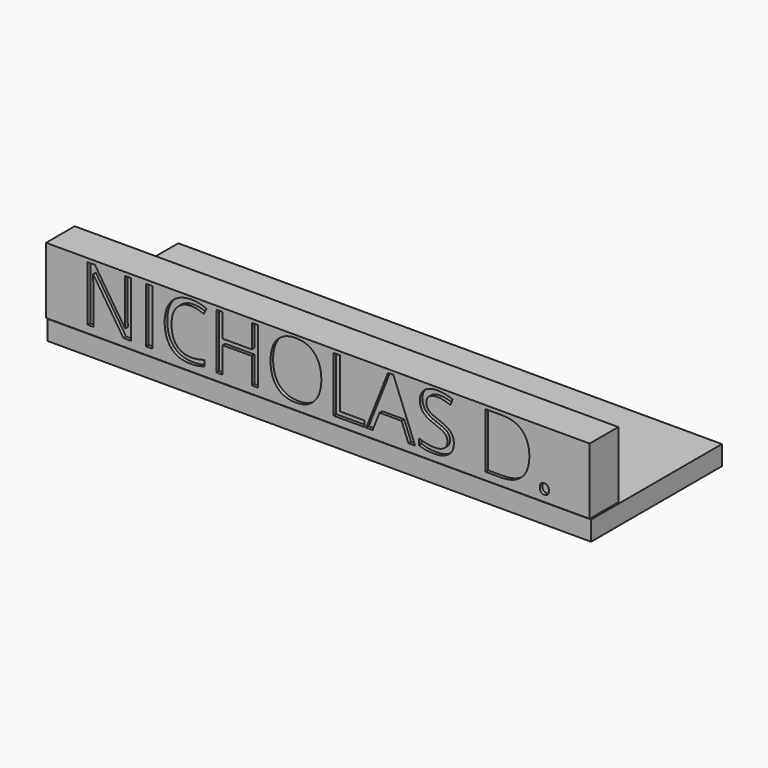
from build123d import *

# Parameters (mm, degrees)
F0_W          = 127.3102520967
F0_H          = 38.3089445531
F1_DEPTH      = 3.556
F1_DEPTH_BACK = 1.016
F3_START      = 11.176
F2_W          = 127.299875021
F2_H          = 15.5115001058
F3_DEPTH      = 7.62
F4_W          = 127.299875021
F4_H          = 15.5115001058
F4_W_2        = 1.5028035596
F4_H_2        = 12.9309029447
F5_DEPTH      = 0.762


with BuildPart() as f1:
    # F0 (on Top) → F1 (new body, two sides)
    with BuildSketch(Plane.XY) as f1_sk:
        Rectangle(F0_W, F0_H)
    extrude(amount=F1_DEPTH)
    extrude(f1_sk.sketch, amount=-F1_DEPTH_BACK)


with BuildPart() as f3:
    # F2 (on Front) → F3 (new body)
    with BuildSketch(Plane.XZ.offset(F3_START)):
        with Locations((0, 11.6400046773)):
            Rectangle(F2_W, F2_H)
    extrude(amount=F3_DEPTH)

    # F4 (on face) → F5 (join)
    with BuildSketch(Plane.XZ.offset(18.796)):
        with Locations((0, 11.6400046773)):
            Rectangle(F4_W, F4_H)
        with BuildLine():
            add(Edge.make_bspline(
                [(52.2700975398, 5.6606976183), (51.9743480634, 5.9394662635), (51.9743480634, 6.5762474329)],
                knots=[0, 0, 0, 1, 1, 1], degree=2))
            add(Edge.make_bspline(
                [(51.9743480634, 6.5762474329), (51.9743480634, 7.1705765242), (52.244626293, 7.4748164162)],
                knots=[0, 0, 0, 1, 1, 1], degree=2))
            add(Edge.make_bspline(
                [(52.244626293, 7.4748164162), (52.5149045227, 7.7790563082), (53.0186691811, 7.7790563082)],
                knots=[0, 0, 0, 1, 1, 1], degree=2))
            add(Edge.make_bspline(
                [(53.0186691811, 7.7790563082), (53.530924255, 7.7790563082), (53.8181833158, 7.4748164162)],
                knots=[0, 0, 0, 1, 1, 1], degree=2))
            add(Edge.make_bspline(
                [(53.8181833158, 7.4748164162), (54.1054423767, 7.1705765242), (54.1054423767, 6.5762474329)],
                knots=[0, 0, 0, 1, 1, 1], degree=2))
            add(Edge.make_bspline(
                [(54.1054423767, 6.5762474329), (54.1054423767, 6.0017293112), (53.8139381081, 5.6918291422)],
                knots=[0, 0, 0, 1, 1, 1], degree=2))
            add(Edge.make_bspline(
                [(53.8139381081, 5.6918291422), (53.5224338394, 5.3819289731), (53.0186691811, 5.3819289731)],
                knots=[0, 0, 0, 1, 1, 1], degree=2))
            add(Edge.make_bspline(
                [(53.0186691811, 5.3819289731), (52.5658470162, 5.3819289731), (52.2700975398, 5.6606976183)],
                knots=[0, 0, 0, 1, 1, 1], degree=2))
        make_face(mode=Mode.SUBTRACT)
        with BuildLine():
            Line((-43.8116904928, 18.570374524), (-43.8116904928, 5.6394715793))
            Line((-43.8116904928, 5.6394715793), (-45.5267544421, 5.6394715793))
            Line((-45.5267544421, 5.6394715793), (-52.5936103521, 16.4902227043))
            Line((-52.5936103521, 16.4902227043), (-52.6643638154, 16.4902227043))
            add(Edge.make_bspline(
                [(-52.6643638154, 16.4902227043), (-52.5228568889, 14.5798791964), (-52.5228568889, 12.9893413424)],
                knots=[0, 0, 0, 1, 1, 1], degree=2))
            Line((-52.5228568889, 12.9893413424), (-52.5228568889, 5.6394715793))
            Line((-52.5228568889, 5.6394715793), (-53.9124549072, 5.6394715793))
            Line((-53.9124549072, 5.6394715793), (-53.9124549072, 18.570374524))
            Line((-53.9124549072, 18.570374524), (-52.2143717891, 18.570374524))
            Line((-52.2143717891, 18.570374524), (-45.1644967102, 7.762075477))
            Line((-45.1644967102, 7.762075477), (-45.093743247, 7.762075477))
            add(Edge.make_bspline(
                [(-45.093743247, 7.762075477), (-45.1107240782, 7.9998071136), (-45.1729871258, 9.2960105604)],
                knots=[0, 0, 0, 1, 1, 1], degree=2))
            add(Edge.make_bspline(
                [(-45.1729871258, 9.2960105604), (-45.2352501735, 10.5922140073), (-45.2182693423, 11.1497512977)],
                knots=[0, 0, 0, 1, 1, 1], degree=2))
            Line((-45.2182693423, 11.1497512977), (-45.2182693423, 18.570374524))
            Line((-45.2182693423, 18.570374524), (-43.8116904928, 18.570374524))
        make_face(mode=Mode.SUBTRACT)
        with Locations((-39.505634719, 12.1049230517)):
            Rectangle(F4_W_2, F4_H_2, mode=Mode.SUBTRACT)
        with BuildLine():
            add(Edge.make_bspline(
                [(-26.7346346013, 16.7222940638), (-28.2034764985, 17.4100177266), (-29.6723183957, 17.4100177266)],
                knots=[0, 0, 0, 1, 1, 1], degree=2))
            add(Edge.make_bspline(
                [(-29.6723183957, 17.4100177266), (-31.8034127089, 17.4100177266), (-33.0373531081, 15.9907032537)],
                knots=[0, 0, 0, 1, 1, 1], degree=2))
            add(Edge.make_bspline(
                [(-33.0373531081, 15.9907032537), (-34.2712935073, 14.5713887808), (-34.2712935073, 12.1035079824)],
                knots=[0, 0, 0, 1, 1, 1], degree=2))
            add(Edge.make_bspline(
                [(-34.2712935073, 12.1035079824), (-34.2712935073, 9.5677038593), (-33.0812202554, 8.1823510488)],
                knots=[0, 0, 0, 1, 1, 1], degree=2))
            add(Edge.make_bspline(
                [(-33.0812202554, 8.1823510488), (-31.8911470034, 6.7969982382), (-29.6892992269, 6.7969982382)],
                knots=[0, 0, 0, 1, 1, 1], degree=2))
            add(Edge.make_bspline(
                [(-29.6892992269, 6.7969982382), (-28.3364930094, 6.7969982382), (-26.6016180904, 7.2837820654)],
                knots=[0, 0, 0, 1, 1, 1], degree=2))
            Line((-26.6016180904, 7.2837820654), (-26.6016180904, 5.9677676489))
            add(Edge.make_bspline(
                [(-26.6016180904, 5.9677676489), (-27.9459338922, 5.4611728519), (-29.9185404478, 5.4611728519)],
                knots=[0, 0, 0, 1, 1, 1], degree=2))
            add(Edge.make_bspline(
                [(-29.9185404478, 5.4611728519), (-32.7741502248, 5.4611728519), (-34.3264812087, 7.196047771)],
                knots=[0, 0, 0, 1, 1, 1], degree=2))
            add(Edge.make_bspline(
                [(-34.3264812087, 7.196047771), (-35.8788121925, 8.93092269), (-35.8788121925, 12.1233189521)],
                knots=[0, 0, 0, 1, 1, 1], degree=2))
            add(Edge.make_bspline(
                [(-35.8788121925, 12.1233189521), (-35.8788121925, 14.1213967545), (-35.1316556205, 15.6242003141)],
                knots=[0, 0, 0, 1, 1, 1], degree=2))
            add(Edge.make_bspline(
                [(-35.1316556205, 15.6242003141), (-34.3844990485, 17.1270038736), (-32.9736749912, 17.9406687011)],
                knots=[0, 0, 0, 1, 1, 1], degree=2))
            add(Edge.make_bspline(
                [(-32.9736749912, 17.9406687011), (-31.5628509339, 18.7543335285), (-29.652507426, 18.7543335285)],
                knots=[0, 0, 0, 1, 1, 1], degree=2))
            add(Edge.make_bspline(
                [(-29.652507426, 18.7543335285), (-27.6204679612, 18.7543335285), (-26.097853432, 18.0128372336)],
                knots=[0, 0, 0, 1, 1, 1], degree=2))
            Line((-26.097853432, 18.0128372336), (-26.7346346013, 16.7222940638))
        make_face(mode=Mode.SUBTRACT)
        Polygon((-13.9622194143, 18.570374524), (-13.9622194143, 5.6394715793), (-15.4650229738, 5.6394715793), (-15.4650229738, 11.7242694194), (-22.2771664161, 11.7242694194), (-22.2771664161, 5.6394715793), (-23.7799699757, 5.6394715793), (-23.7799699757, 18.570374524), (-22.2771664161, 18.570374524), (-22.2771664161, 13.0685852212), (-15.4650229738, 13.0685852212), (-15.4650229738, 18.570374524), align=None, mode=Mode.SUBTRACT)
        with BuildLine():
            add(Edge.make_bspline(
                [(-0.7567930321, 17.0053079168), (0.8082735751, 15.2364713354), (0.8082735751, 12.1233189521)],
                knots=[0, 0, 0, 1, 1, 1], degree=2))
            add(Edge.make_bspline(
                [(0.8082735751, 12.1233189521), (0.8082735751, 9.0186569845), (-0.7624533092, 7.2399149182)],
                knots=[0, 0, 0, 1, 1, 1], degree=2))
            add(Edge.make_bspline(
                [(-0.7624533092, 7.2399149182), (-2.3331801935, 5.4611728519), (-5.1265269228, 5.4611728519)],
                knots=[0, 0, 0, 1, 1, 1], degree=2))
            add(Edge.make_bspline(
                [(-5.1265269228, 5.4611728519), (-7.9821366999, 5.4611728519), (-9.5344676837, 7.2087833944)],
                knots=[0, 0, 0, 1, 1, 1], degree=2))
            add(Edge.make_bspline(
                [(-9.5344676837, 7.2087833944), (-11.0867986675, 8.9563939368), (-11.0867986675, 12.1402997833)],
                knots=[0, 0, 0, 1, 1, 1], degree=2))
            add(Edge.make_bspline(
                [(-11.0867986675, 12.1402997833), (-11.0867986675, 15.2987343831), (-9.5302224759, 17.0364394406)],
                knots=[0, 0, 0, 1, 1, 1], degree=2))
            add(Edge.make_bspline(
                [(-9.5302224759, 17.0364394406), (-7.9736462843, 18.7741444982), (-5.1095460917, 18.7741444982)],
                knots=[0, 0, 0, 1, 1, 1], degree=2))
            add(Edge.make_bspline(
                [(-5.1095460917, 18.7741444982), (-2.3218596394, 18.7741444982), (-0.7567930321, 17.0053079168)],
                knots=[0, 0, 0, 1, 1, 1], degree=2))
        make_face(mode=Mode.SUBTRACT)
        Polygon((10.8977174354, 5.6394715793), (3.6893545989, 5.6394715793), (3.6893545989, 18.570374524), (5.1921581584, 18.570374524), (5.1921581584, 7.0007682124), (10.8977174354, 7.0007682124), align=None, mode=Mode.SUBTRACT)
        Polygon((22.7758088468, 5.6394715793), (21.2192326552, 5.6394715793), (19.6088838315, 9.7516628638), (14.4269001826, 9.7516628638), (12.8363623286, 5.6394715793), (11.3137477994, 5.6394715793), (16.424977985, 18.6241471561), (17.690049908, 18.6241471561), align=None, mode=Mode.SUBTRACT)
        with BuildLine():
            add(Edge.make_bspline(
                [(31.0850955716, 11.2374855922), (31.8492329748, 10.4054248643), (31.8492329748, 9.0809200321)],
                knots=[0, 0, 0, 1, 1, 1], degree=2))
            add(Edge.make_bspline(
                [(31.8492329748, 9.0809200321), (31.8492329748, 7.3743464984), (30.6110473678, 6.4177596752)],
                knots=[0, 0, 0, 1, 1, 1], degree=2))
            add(Edge.make_bspline(
                [(30.6110473678, 6.4177596752), (29.3728617608, 5.4611728519), (27.2502578632, 5.4611728519)],
                knots=[0, 0, 0, 1, 1, 1], degree=2))
            add(Edge.make_bspline(
                [(27.2502578632, 5.4611728519), (24.9521853766, 5.4611728519), (23.7125847004, 6.0555019433)],
                knots=[0, 0, 0, 1, 1, 1], degree=2))
            Line((23.7125847004, 6.0555019433), (23.7125847004, 7.5045328708))
            add(Edge.make_bspline(
                [(23.7125847004, 7.5045328708), (24.5106837659, 7.1705765242), (25.4474596194, 6.9752969656)],
                knots=[0, 0, 0, 1, 1, 1], degree=2))
            add(Edge.make_bspline(
                [(25.4474596194, 6.9752969656), (26.3842354729, 6.780017407), (27.3040304952, 6.780017407)],
                knots=[0, 0, 0, 1, 1, 1], degree=2))
            add(Edge.make_bspline(
                [(27.3040304952, 6.780017407), (28.8068340548, 6.780017407), (29.5681413194, 7.3502903209)],
                knots=[0, 0, 0, 1, 1, 1], degree=2))
            add(Edge.make_bspline(
                [(29.5681413194, 7.3502903209), (30.3294485841, 7.9205632347), (30.3294485841, 8.9394131056)],
                knots=[0, 0, 0, 1, 1, 1], degree=2))
            add(Edge.make_bspline(
                [(30.3294485841, 8.9394131056), (30.3294485841, 9.6101559373), (30.0591703544, 10.0389219246)],
                knots=[0, 0, 0, 1, 1, 1], degree=2))
            add(Edge.make_bspline(
                [(30.0591703544, 10.0389219246), (29.7888921248, 10.4676879119), (29.1563561633, 10.8313607131)],
                knots=[0, 0, 0, 1, 1, 1], degree=2))
            add(Edge.make_bspline(
                [(29.1563561633, 10.8313607131), (28.5238202018, 11.1950335142), (27.233277032, 11.6535159561)],
                knots=[0, 0, 0, 1, 1, 1], degree=2))
            add(Edge.make_bspline(
                [(27.233277032, 11.6535159561), (25.4304787882, 12.298787541), (24.6564359002, 13.1832058317)],
                knots=[0, 0, 0, 1, 1, 1], degree=2))
            add(Edge.make_bspline(
                [(24.6564359002, 13.1832058317), (23.8823930122, 14.0676241224), (23.8823930122, 15.4911838031)],
                knots=[0, 0, 0, 1, 1, 1], degree=2))
            add(Edge.make_bspline(
                [(23.8823930122, 15.4911838031), (23.8823930122, 16.9854969471), (25.0045429394, 17.8699152378)],
                knots=[0, 0, 0, 1, 1, 1], degree=2))
            add(Edge.make_bspline(
                [(25.0045429394, 17.8699152378), (26.1266928667, 18.7543335285), (27.9776034654, 18.7543335285)],
                knots=[0, 0, 0, 1, 1, 1], degree=2))
            add(Edge.make_bspline(
                [(27.9776034654, 18.7543335285), (29.9049278045, 18.7543335285), (31.5237670438, 18.0467988959)],
                knots=[0, 0, 0, 1, 1, 1], degree=2))
            Line((31.5237670438, 18.0467988959), (31.0539640478, 16.739274895))
            add(Edge.make_bspline(
                [(31.0539640478, 16.739274895), (29.4521056397, 17.4100177266), (27.9408116645, 17.4100177266)],
                knots=[0, 0, 0, 1, 1, 1], degree=2))
            add(Edge.make_bspline(
                [(27.9408116645, 17.4100177266), (26.7464932048, 17.4100177266), (26.0743353038, 16.8977626527)],
                knots=[0, 0, 0, 1, 1, 1], degree=2))
            add(Edge.make_bspline(
                [(26.0743353038, 16.8977626527), (25.4021774029, 16.3855075787), (25.4021774029, 15.4742029719)],
                knots=[0, 0, 0, 1, 1, 1], degree=2))
            add(Edge.make_bspline(
                [(25.4021774029, 15.4742029719), (25.4021774029, 14.8034601403), (25.6498145243, 14.3732790837)],
                knots=[0, 0, 0, 1, 1, 1], degree=2))
            add(Edge.make_bspline(
                [(25.6498145243, 14.3732790837), (25.8974516457, 13.9430980271), (26.48612046, 13.585085503)],
                knots=[0, 0, 0, 1, 1, 1], degree=2))
            add(Edge.make_bspline(
                [(26.48612046, 13.585085503), (27.0747892743, 13.2270729789), (28.2860885652, 12.7940617838)],
                knots=[0, 0, 0, 1, 1, 1], degree=2))
            add(Edge.make_bspline(
                [(28.2860885652, 12.7940617838), (30.3209581685, 12.0695463201), (31.0850955716, 11.2374855922)],
                knots=[0, 0, 0, 1, 1, 1], degree=2))
        make_face(mode=Mode.SUBTRACT)
        with BuildLine():
            add(Edge.make_bspline(
                [(47.8522512941, 16.8991777219), (49.5234480962, 15.2279809198), (49.5234480962, 12.2280340778)],
                knots=[0, 0, 0, 1, 1, 1], degree=2))
            add(Edge.make_bspline(
                [(49.5234480962, 12.2280340778), (49.5234480962, 9.0271474), (47.7857430386, 7.3333094897)],
                knots=[0, 0, 0, 1, 1, 1], degree=2))
            add(Edge.make_bspline(
                [(47.7857430386, 7.3333094897), (46.0480379811, 5.6394715793), (42.7848882557, 5.6394715793)],
                knots=[0, 0, 0, 1, 1, 1], degree=2))
            Line((42.7848882557, 5.6394715793), (39.2019328764, 5.6394715793))
            Line((39.2019328764, 5.6394715793), (39.2019328764, 18.570374524))
            Line((39.2019328764, 18.570374524), (43.1641268187, 18.570374524))
            add(Edge.make_bspline(
                [(43.1641268187, 18.570374524), (46.181054492, 18.570374524), (47.8522512941, 16.8991777219)],
                knots=[0, 0, 0, 1, 1, 1], degree=2))
        make_face(mode=Mode.SUBTRACT)
    extrude(amount=F5_DEPTH)


solid = Compound([f1.part, f3.part])
